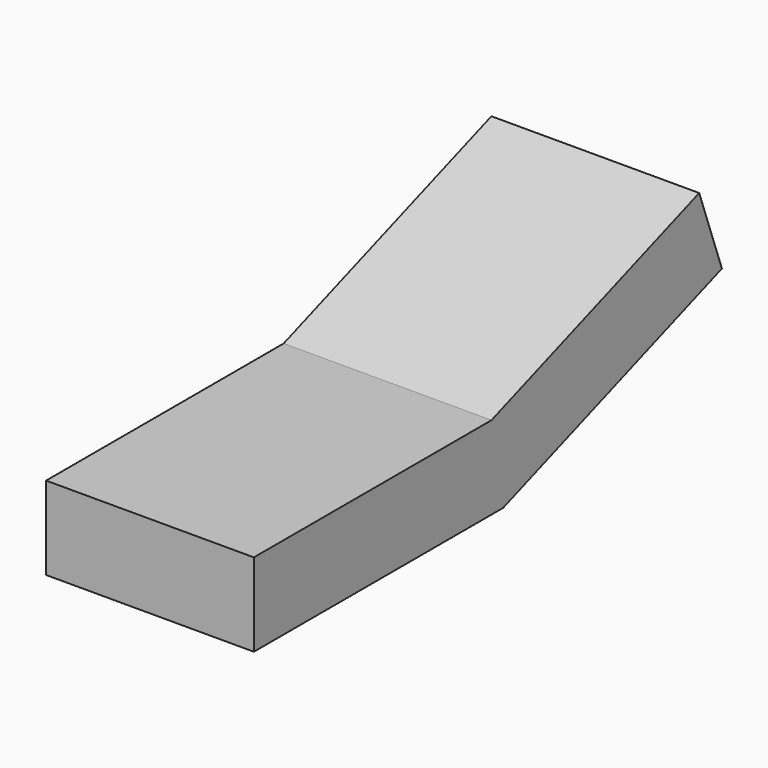
from build123d import *

# Parameters (mm, degrees)
BOX003_W               = 0.5
BOX003_H               = 0.75
BOX003_DEPTH           = 0.2
BOX004_W               = 0.5
BOX004_H               = 0.7
BOX004_DEPTH           = 0.2
BOX004_PLACEMENT_ANGLE = 20


with BuildPart() as cube003:
    # Box003 → Box003 (new body)
    with BuildSketch(Plane(origin=(0, -1.25, 0), x_dir=(1, 0, 0), z_dir=(0, 0, 1))):
        with Locations((0.25, 0.375)):
            Rectangle(BOX003_W, BOX003_H)
    extrude(amount=BOX003_DEPTH)


with BuildPart() as fusion001:
    # Box004 → Box004 (new body)
    with BuildSketch(Plane.XY):
        with Locations((0.25, 0.35)):
            Rectangle(BOX004_W, BOX004_H)
    extrude(amount=BOX004_DEPTH)


with BuildPart() as fusion001_1:
    # Box004 placement: moved
    add(fusion001.part.moved(Location((0, -0.5, 0))).rotate(Axis((0, -0.5, 0), (1, 0, 0)), BOX004_PLACEMENT_ANGLE))

    # Fusion001: union Cube003
    add(cube003.part)


with BuildPart() as fusion001_2:
    # Fusion001 placement: moved
    add(fusion001_1.part.moved(Location((0.85, 0, 0))))


solid = fusion001_2.part
